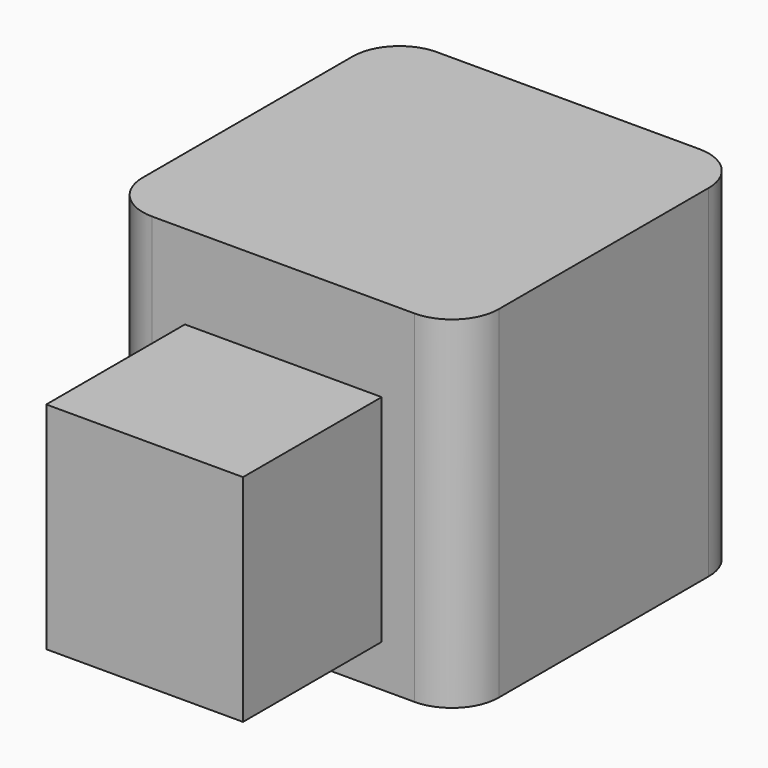
from build123d import *

# Parameters (mm, degrees)
F0_W     = 38
F0_H     = 38
F1_DEPTH = 36.5
F2_R     = 5
F3_W     = 21
F3_H     = 23
F4_DEPTH = 18.5


with BuildPart() as f1:
    # F0 (on Top) → F1 (new body)
    with BuildSketch(Plane.XY):
        Rectangle(F0_W, F0_H)
    extrude(amount=F1_DEPTH)

    # F2
    f2_edges = [f1.edges().sort_by_distance(p)[0] for p in [
        (19, -19, 18.25),
        (19, 19, 18.25),
        (-19, 19, 18.25),
        (-19, -19, 18.25),
    ]]
    fillet(f2_edges, radius=F2_R)

    # F3 (on face) → F4 (join)
    with BuildSketch(Plane.XZ.offset(19)):
        with Locations((0, 16)):
            Rectangle(F3_W, F3_H)
    extrude(amount=F4_DEPTH)


solid = f1.part
